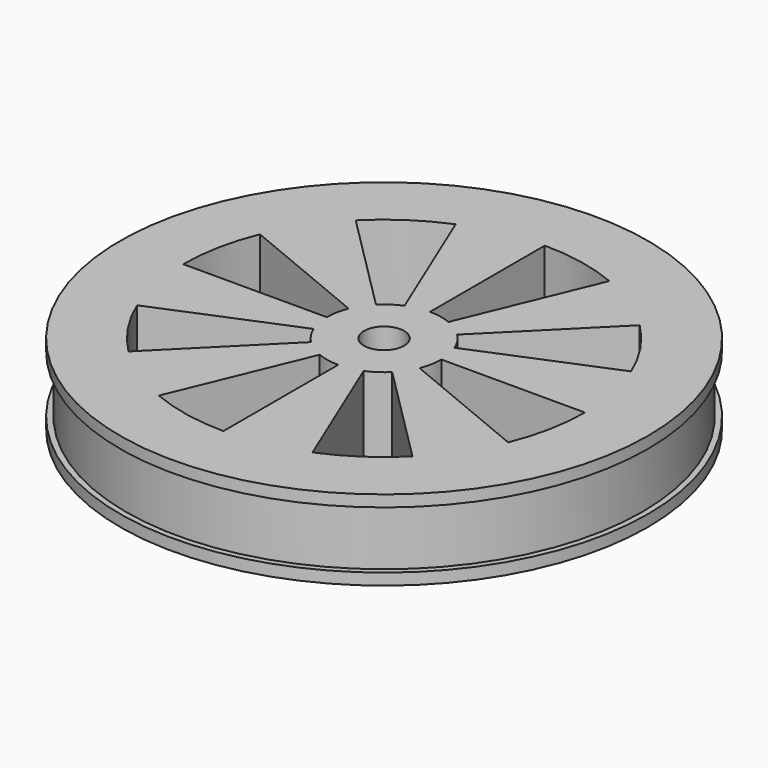
from build123d import *

# Parameters (mm, degrees)
F0_R      = 23
F1_DEPTH  = 1
F2_R      = 22.5
F3_DEPTH  = 5
F4_R      = 23
F4_R_2    = 22.5
F5_DEPTH  = 1
F6_R      = 1.75
F7_DEPTH  = 25
F9_DEPTH  = 10
F10_R     = 4
F10_R_2   = 1.75
F11_DEPTH = 4


with BuildPart() as f1:
    # F0 (on Top) → F1 (new body)
    with BuildSketch(Plane.XY):
        Circle(F0_R)
    extrude(amount=F1_DEPTH)

    # F2 (on face) → F3 (join)
    with BuildSketch(Plane.XY.offset(1)):
        Circle(F2_R)
    extrude(amount=F3_DEPTH)

    # F4 (on face) → F5 (join)
    with BuildSketch(Plane.XY.offset(6)):
        Circle(F4_R)
        Circle(F4_R_2, mode=Mode.SUBTRACT)
        Circle(F4_R_2)
    extrude(amount=F5_DEPTH)

    # F6 (on face) → F7 (cut)
    with BuildSketch(Plane.XY.offset(7)):
        Circle(F6_R)
    extrude(amount=-F7_DEPTH, mode=Mode.SUBTRACT)

    # F8 (on face) → F9 (cut)
    with BuildSketch(Plane.XY.offset(7)):
        with BuildLine():
            ThreePointArc((0, 5), (0.9754516101, 4.903926402), (1.9134171618, 4.6193976626))
            Line((1.9134171618, 4.6193976626), (6.6969600664, 16.1678918189))
            ThreePointArc((6.6969600664, 16.1678918189), (3.4140806353, 17.1637424071), (0, 17.5))
            Line((0, 17.5), (0, 5))
        make_face()
        with BuildLine():
            ThreePointArc((3.5355339059, 3.5355339059), (4.1573480615, 2.7778511651), (4.6193976626, 1.9134171618))
            Line((4.6193976626, 1.9134171618), (16.1678918189, 6.6969600664))
            ThreePointArc((16.1678918189, 6.6969600664), (14.5507182153, 9.7224790778), (12.3743686708, 12.3743686708))
            Line((12.3743686708, 12.3743686708), (3.5355339059, 3.5355339059))
        make_face()
        with BuildLine():
            Line((17.5, 0), (5, 0))
            ThreePointArc((5, 0), (4.903926402, -0.9754516101), (4.6193976626, -1.9134171618))
            Line((4.6193976626, -1.9134171618), (16.1678918189, -6.6969600664))
            ThreePointArc((16.1678918189, -6.6969600664), (17.1637424071, -3.4140806353), (17.5, 0))
        make_face()
        with BuildLine():
            Line((12.3743686708, -12.3743686708), (3.5355339059, -3.5355339059))
            ThreePointArc((3.5355339059, -3.5355339059), (2.7778511651, -4.1573480615), (1.9134171618, -4.6193976626))
            Line((1.9134171618, -4.6193976626), (6.6969600664, -16.1678918189))
            ThreePointArc((6.6969600664, -16.1678918189), (9.7224790778, -14.5507182153), (12.3743686708, -12.3743686708))
        make_face()
        with BuildLine():
            Line((0, -17.5), (0, -5))
            ThreePointArc((0, -5), (-0.9754516101, -4.903926402), (-1.9134171618, -4.6193976626))
            Line((-1.9134171618, -4.6193976626), (-6.6969600664, -16.1678918189))
            ThreePointArc((-6.6969600664, -16.1678918189), (-3.4140806353, -17.1637424071), (0, -17.5))
        make_face()
        with BuildLine():
            ThreePointArc((-3.5355339059, -3.5355339059), (-4.1573480615, -2.7778511651), (-4.6193976626, -1.9134171618))
            Line((-4.6193976626, -1.9134171618), (-16.1678918189, -6.6969600664))
            ThreePointArc((-16.1678918189, -6.6969600664), (-14.5507182153, -9.7224790778), (-12.3743686708, -12.3743686708))
            Line((-12.3743686708, -12.3743686708), (-3.5355339059, -3.5355339059))
        make_face()
        with BuildLine():
            ThreePointArc((-5, 0), (-4.903926402, 0.9754516101), (-4.6193976626, 1.9134171618))
            Line((-4.6193976626, 1.9134171618), (-16.1678918189, 6.6969600664))
            ThreePointArc((-16.1678918189, 6.6969600664), (-17.1637424071, 3.4140806353), (-17.5, 0))
            Line((-17.5, 0), (-5, 0))
        make_face()
        with BuildLine():
            ThreePointArc((-3.5355339059, 3.5355339059), (-2.7778511651, 4.1573480615), (-1.9134171618, 4.6193976626))
            Line((-1.9134171618, 4.6193976626), (-6.6969600664, 16.1678918189))
            ThreePointArc((-6.6969600664, 16.1678918189), (-9.7224790778, 14.5507182153), (-12.3743686708, 12.3743686708))
            Line((-12.3743686708, 12.3743686708), (-3.5355339059, 3.5355339059))
        make_face()
    extrude(amount=-F9_DEPTH, mode=Mode.SUBTRACT)


with BuildPart() as f11:
    # F10 (on face) → F11 (new body)
    with BuildSketch(Plane(origin=(0, 0, 0), x_dir=(1, 0, 0), z_dir=(0, 0, -1))):
        Circle(F10_R)
        Circle(F10_R_2, mode=Mode.SUBTRACT)
    extrude(amount=F11_DEPTH)


solid = Compound([f1.part, f11.part])
